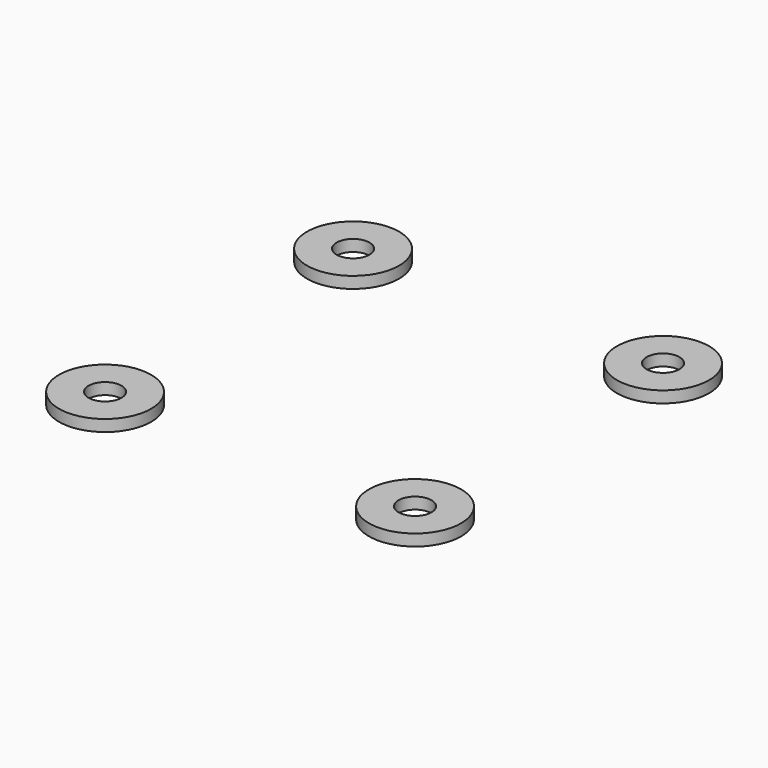
from build123d import *

# Parameters (mm, degrees)
CYLINDER1862_R     = 2.5
CYLINDER1862_DEPTH = 20
CYLINDER1860_R     = 2.5
CYLINDER1860_DEPTH = 20
CYLINDER1859_R     = 2.5
CYLINDER1859_DEPTH = 20
CYLINDER1861_R     = 2.5
CYLINDER1861_DEPTH = 20
CYLINDER1858_R     = 7
CYLINDER1858_DEPTH = 1.75
CYLINDER1856_R     = 7
CYLINDER1856_DEPTH = 1.75
CYLINDER1855_R     = 7
CYLINDER1855_DEPTH = 1.75
CYLINDER1857_R     = 7
CYLINDER1857_DEPTH = 1.75


with BuildPart() as obj1:
    # Cylinder1862 → Cylinder1862 (new body)
    with BuildSketch(Plane(origin=(-23.55, 23.55, -34), x_dir=(1, 0, 0), z_dir=(0, 0, 1))):
        Circle(CYLINDER1862_R)
    extrude(amount=CYLINDER1862_DEPTH)


with BuildPart() as obj2:
    # Cylinder1860 → Cylinder1860 (new body)
    with BuildSketch(Plane(origin=(-23.55, -23.55, -34), x_dir=(1, 0, 0), z_dir=(0, 0, 1))):
        Circle(CYLINDER1860_R)
    extrude(amount=CYLINDER1860_DEPTH)


with BuildPart() as obj3:
    # Cylinder1859 → Cylinder1859 (new body)
    with BuildSketch(Plane(origin=(23.55, -23.55, -34), x_dir=(1, 0, 0), z_dir=(0, 0, 1))):
        Circle(CYLINDER1859_R)
    extrude(amount=CYLINDER1859_DEPTH)


with BuildPart() as compound930:
    # Cylinder1861 → Cylinder1861 (new body)
    with BuildSketch(Plane(origin=(23.55, 23.55, -34), x_dir=(1, 0, 0), z_dir=(0, 0, 1))):
        Circle(CYLINDER1861_R)
    extrude(amount=CYLINDER1861_DEPTH)

    # Compound930: union obj1, obj2, obj3
    add(obj1.part)
    add(obj2.part)
    add(obj3.part)


with BuildPart() as compound930_1:
    # Compound930 placement: moved
    add(compound930.part.moved(Location((0, 0, -8))))


with BuildPart() as obj4:
    # Cylinder1858 → Cylinder1858 (new body)
    with BuildSketch(Plane(origin=(-23.55, 23.55, -34), x_dir=(1, 0, 0), z_dir=(0, 0, 1))):
        Circle(CYLINDER1858_R)
    extrude(amount=CYLINDER1858_DEPTH)


with BuildPart() as obj5:
    # Cylinder1856 → Cylinder1856 (new body)
    with BuildSketch(Plane(origin=(-23.55, -23.55, -34), x_dir=(1, 0, 0), z_dir=(0, 0, 1))):
        Circle(CYLINDER1856_R)
    extrude(amount=CYLINDER1856_DEPTH)


with BuildPart() as obj6:
    # Cylinder1855 → Cylinder1855 (new body)
    with BuildSketch(Plane(origin=(23.55, -23.55, -34), x_dir=(1, 0, 0), z_dir=(0, 0, 1))):
        Circle(CYLINDER1855_R)
    extrude(amount=CYLINDER1855_DEPTH)


with BuildPart() as cut318:
    # Cylinder1857 → Cylinder1857 (new body)
    with BuildSketch(Plane(origin=(23.55, 23.55, -34), x_dir=(1, 0, 0), z_dir=(0, 0, 1))):
        Circle(CYLINDER1857_R)
    extrude(amount=CYLINDER1857_DEPTH)

    # Compound929: union obj4, obj5, obj6
    add(obj4.part)
    add(obj5.part)
    add(obj6.part)


with BuildPart() as cut318_1:
    # Compound929 placement: moved
    add(cut318.part.moved(Location((0, 0, -0.75))))

    # Cut318: cut Compound930
    add(compound930_1.part, mode=Mode.SUBTRACT)


with BuildPart() as cut318_2:
    # Cut318 placement: moved
    add(cut318_1.part.moved(Location((0, 0, 3))))


solid = cut318_2.part
